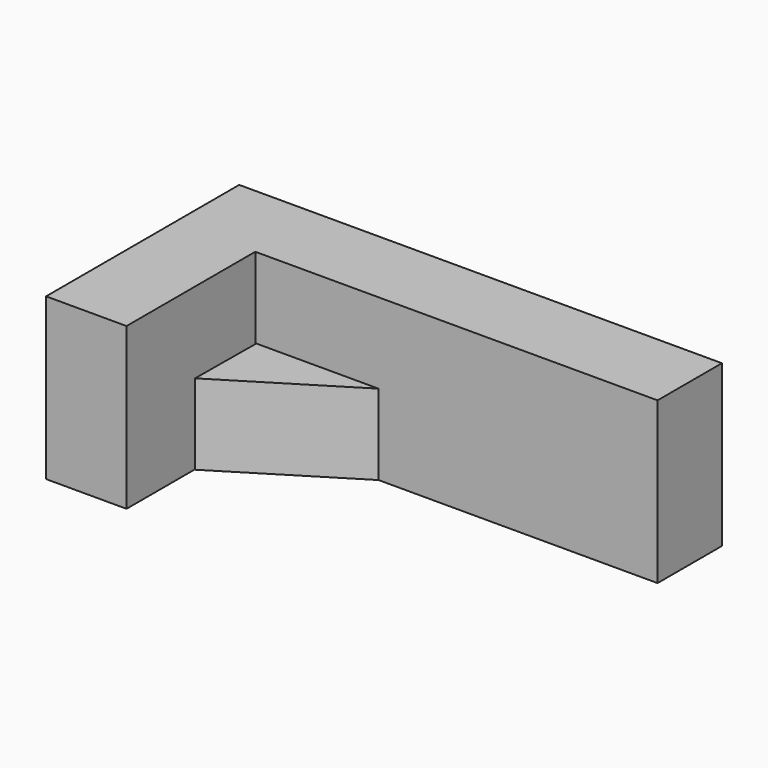
from build123d import *

# Parameters (mm, degrees)
F1_DEPTH = 50.8
F3_DEPTH = 25.4


with BuildPart() as f1:
    # F0 (on Top) → F1 (new body)
    with BuildSketch(Plane.XY):
        Polygon((0, 76.2), (0, 0), (25.4, 0), (25.4, 50.8), (152.4, 50.8), (152.4, 76.2), align=None)
    extrude(amount=F1_DEPTH)

    # F2 (on Top) → F3 (join)
    with BuildSketch(Plane.XY):
        Polygon((25.733979, 51.032908), (25.549412, 26.854567), (64.677715, 51.032908), align=None)
    extrude(amount=F3_DEPTH)


solid = f1.part
